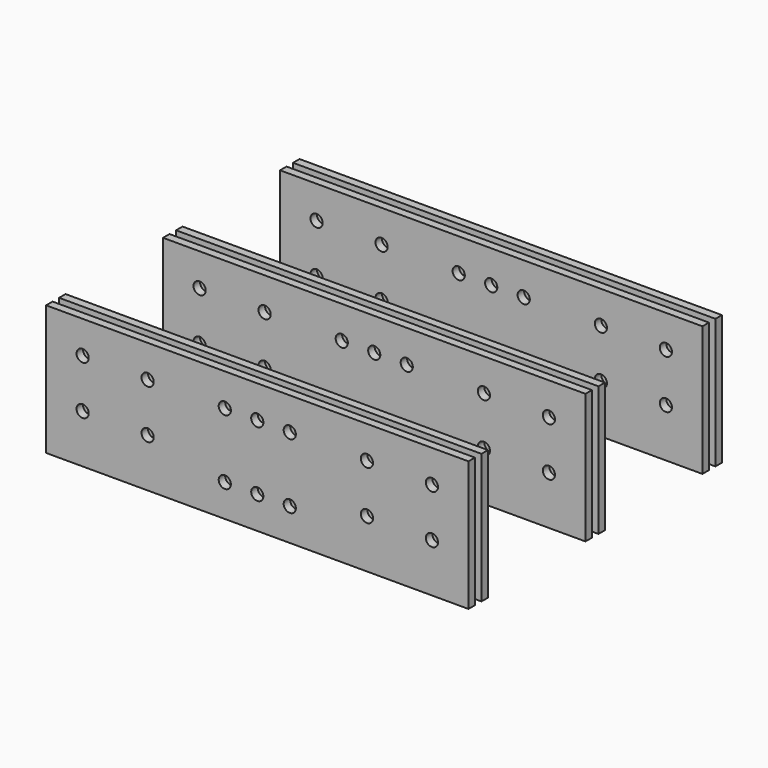
from build123d import *

# Parameters (mm, degrees)
F0_W     = 6.35
F0_H     = 101.6
F1_DEPTH = 165.1
F2_R     = 4.7625
F3_DEPTH = 247.651


with BuildPart() as f1:
    # F0 (on Right) → F1 (new body, symmetric)
    with BuildSketch(Plane.YZ):
        with Locations((-56.853673, 25.727598)):
            Rectangle(F0_W, F0_H)
        with Locations((-44.153673, 25.727598)):
            Rectangle(F0_W, F0_H)
        with Locations((70.146327, 25.727598)):
            Rectangle(F0_W, F0_H)
        with Locations((57.446327, 25.727598)):
            Rectangle(F0_W, F0_H)
        with Locations((184.446327, 25.727598)):
            Rectangle(F0_W, F0_H)
        with Locations((171.746327, 25.727598)):
            Rectangle(F0_W, F0_H)
    extrude(amount=F1_DEPTH, both=True)

    # F2 (on face) → F3 (cut, through all)
    with BuildSketch(Plane.XZ.offset(60.028673)):
        with Locations((-136.525, 51.127598)):
            Circle(F2_R)
        with Locations((136.525, 51.127598)):
            Circle(F2_R)
        with Locations((-25.4, 0.327598)):
            Circle(F2_R)
        with Locations((-136.525, 13.027598)):
            Circle(F2_R)
        with Locations((-85.725, 51.127598)):
            Circle(F2_R)
        with Locations((-85.725, 13.027598)):
            Circle(F2_R)
        with Locations((136.525, 13.027598)):
            Circle(F2_R)
        with Locations((85.725, 51.127598)):
            Circle(F2_R)
        with Locations((85.725, 13.027598)):
            Circle(F2_R)
        with Locations((-25.4, 51.127598)):
            Circle(F2_R)
        with Locations((0, 0.327598)):
            Circle(F2_R)
        with Locations((0, 51.127598)):
            Circle(F2_R)
        with Locations((25.4, 0.327598)):
            Circle(F2_R)
        with Locations((25.4, 51.127598)):
            Circle(F2_R)
    extrude(amount=-F3_DEPTH, mode=Mode.SUBTRACT)


solid = f1.part
